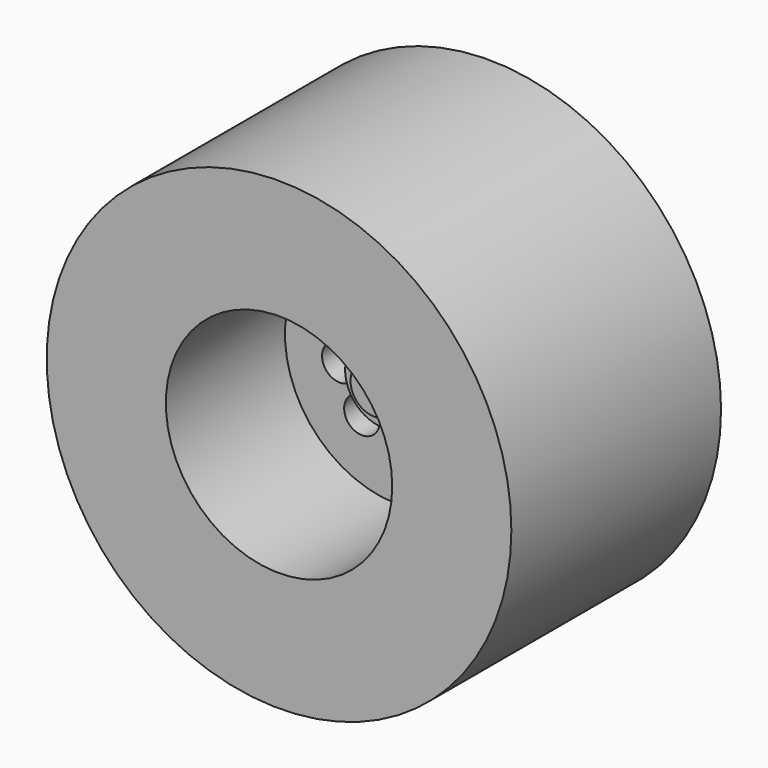
from build123d import *

# Parameters (mm, degrees)
F0_R      = 19.5
F0_R_2    = 9.5
F1_DEPTH  = 22
F2_DEPTH  = 12.5
F4_DEPTH  = 25.4
F5_R      = 3
F5_R_2    = 1.5
F6_DEPTH  = 8.5
F7_R      = 18
F7_R_2    = 9.75
F8_DEPTH  = 15.5
F9_R      = 3.25
F10_DEPTH = 1.5
F11_R     = 2
F12_DEPTH = 1


with BuildPart() as f1:
    # F0 (on Front) → F1 (new body)
    with BuildSketch(Plane.XZ):
        Circle(F0_R)
        Circle(F0_R_2, mode=Mode.SUBTRACT)
        Circle(F0_R_2)
    extrude(amount=-F1_DEPTH)

    # F0 (on Front) → F2 (cut)
    with BuildSketch(Plane.XZ):
        Circle(F0_R_2)
    extrude(amount=-F2_DEPTH, mode=Mode.SUBTRACT)

    # F3 (on face) → F4 (cut)
    with BuildSketch(Plane.XZ.offset(-12.5)):
        with BuildLine():
            ThreePointArc((1.725492364, 4.6128408927), (2.1099407886, 2.6979204712), (4.0610724324, 2.7862727252))
            ThreePointArc((4.0610724324, 2.7862727252), (3.0340024478, 3.8794914804), (1.725492364, 4.6128408927))
        make_face()
        with BuildLine():
            ThreePointArc((1.725492364, 4.6128408927), (3.0340024478, 3.8794914804), (4.0610724324, 2.7862727252))
            ThreePointArc((4.0610724324, 2.7862727252), (4.410702302, 3.2839266128), (4.5340024478, 3.8794914804))
            ThreePointArc((4.5340024478, 3.8794914804), (3.412971361, 5.3308296777), (1.725492364, 4.6128408927))
        make_face()
        with BuildLine():
            ThreePointArc((-2.0416637243, 4.4818784273), (-0.4157644207, 3.3996712998), (0.9014195176, 4.841804194))
            ThreePointArc((0.9014195176, 4.841804194), (-0.5978510284, 4.8885784383), (-2.0416637243, 4.4818784273))
        make_face()
        with BuildLine():
            ThreePointArc((-2.0416637243, 4.4818784273), (-0.5978510284, 4.8885784383), (0.9014195176, 4.841804194))
            ThreePointArc((0.9014195176, 4.841804194), (0.901966597, 4.8651884724), (0.9021489716, 4.8885784383))
            ThreePointArc((0.9021489716, 4.8885784383), (-0.8031324889, 6.374465218), (-2.0416637243, 4.4818784273))
        make_face()
        with BuildLine():
            ThreePointArc((-2.3794914804, 3.0340024478), (-2.4848897213, 3.5863482938), (-2.7862727252, 4.0610724324))
            ThreePointArc((-2.7862727252, 4.0610724324), (-3.8794914804, 3.0340024478), (-4.6128408927, 1.725492364))
            ThreePointArc((-4.6128408927, 1.725492364), (-3.1212118877, 1.7397798784), (-2.3794914804, 3.0340024478))
        make_face()
        with BuildLine():
            ThreePointArc((-4.6128408927, 1.725492364), (-3.8794914804, 3.0340024478), (-2.7862727252, 4.0610724324))
            ThreePointArc((-2.7862727252, 4.0610724324), (-5.0610624897, 3.9580641071), (-4.6128408927, 1.725492364))
        make_face()
        with BuildLine():
            ThreePointArc((-3.3885784383, -0.5978510284), (-3.8115080213, 0.4461409815), (-4.841804194, 0.9014195176))
            ThreePointArc((-4.841804194, 0.9014195176), (-4.8885784383, -0.5978510284), (-4.4818784273, -2.0416637243))
            ThreePointArc((-4.4818784273, -2.0416637243), (-3.6927419076, -1.5033757335), (-3.3885784383, -0.5978510284))
        make_face()
        with BuildLine():
            ThreePointArc((-4.4818784273, -2.0416637243), (-4.8885784383, -0.5978510284), (-4.841804194, 0.9014195176))
            ThreePointArc((-4.841804194, 0.9014195176), (-6.3774855769, -0.779937636), (-4.4818784273, -2.0416637243))
        make_face()
        with BuildLine():
            ThreePointArc((-4.0610724324, -2.7862727252), (-3.0340024478, -3.8794914804), (-1.725492364, -4.6128408927))
            ThreePointArc((-1.725492364, -4.6128408927), (-1.5826642505, -4.2584603936), (-1.5340024478, -3.8794914804))
            ThreePointArc((-1.5340024478, -3.8794914804), (-2.4384375802, -2.5027916263), (-4.0610724324, -2.7862727252))
        make_face()
        with BuildLine():
            ThreePointArc((-4.0610724324, -2.7862727252), (-3.9580641071, -5.0610624897), (-1.725492364, -4.6128408927))
            ThreePointArc((-1.725492364, -4.6128408927), (-3.0340024478, -3.8794914804), (-4.0610724324, -2.7862727252))
        make_face()
        with BuildLine():
            ThreePointArc((-0.9014195176, -4.841804194), (0.5978510284, -4.8885784383), (2.0416637243, -4.4818784273))
            ThreePointArc((2.0416637243, -4.4818784273), (0.4157644207, -3.3996712998), (-0.9014195176, -4.841804194))
        make_face()
        with BuildLine():
            ThreePointArc((2.0978510284, -4.8885784383), (2.083737808, -4.6832969778), (2.0416637243, -4.4818784273))
            ThreePointArc((2.0416637243, -4.4818784273), (0.5978510284, -4.8885784383), (-0.9014195176, -4.841804194))
            ThreePointArc((-0.9014195176, -4.841804194), (0.5744610624, -6.3883960638), (2.0978510284, -4.8885784383))
        make_face()
        with BuildLine():
            ThreePointArc((2.7862727252, -4.0610724324), (3.8794914804, -3.0340024478), (4.6128408927, -1.725492364))
            ThreePointArc((4.6128408927, -1.725492364), (2.6979204712, -2.1099407886), (2.7862727252, -4.0610724324))
        make_face()
        with BuildLine():
            ThreePointArc((5.3794914804, -3.0340024478), (5.1737140499, -2.2757228551), (4.6128408927, -1.725492364))
            ThreePointArc((4.6128408927, -1.725492364), (3.8794914804, -3.0340024478), (2.7862727252, -4.0610724324))
            ThreePointArc((2.7862727252, -4.0610724324), (4.4318373264, -4.4286042069), (5.3794914804, -3.0340024478))
        make_face()
        with BuildLine():
            ThreePointArc((4.841804194, -0.9014195176), (4.9041569436, -0.4526253111), (4.925, 0))
            ThreePointArc((4.925, 0), (4.8129448498, 1.0445989053), (4.4818784273, 2.0416637243))
            ThreePointArc((4.4818784273, 2.0416637243), (3.3996712998, 0.4157644207), (4.841804194, -0.9014195176))
        make_face()
        with BuildLine():
            ThreePointArc((4.4818784273, 2.0416637243), (4.8129448498, 1.0445989053), (4.925, 0))
            ThreePointArc((4.925, 0), (4.9041569436, -0.4526253111), (4.841804194, -0.9014195176))
            ThreePointArc((4.841804194, -0.9014195176), (5.9325704483, -0.4792193887), (6.3885784383, 0.5978510284))
            ThreePointArc((6.3885784383, 0.5978510284), (5.7941031435, 1.7936875591), (4.4818784273, 2.0416637243))
        make_face()
    extrude(amount=-F4_DEPTH, mode=Mode.SUBTRACT)

    # F5 (on face) → F6 (join)
    with BuildSketch(Plane(origin=(0, 22, 0), x_dir=(-1, 0, 0), z_dir=(0, 1, 0))):
        Circle(F5_R)
        Circle(F5_R_2, mode=Mode.SUBTRACT)
    extrude(amount=F6_DEPTH)

    # F7 (on face) → F8 (cut)
    with BuildSketch(Plane(origin=(0, 22, 0), x_dir=(-1, 0, 0), z_dir=(0, 1, 0))):
        Circle(F7_R)
        Circle(F7_R_2, mode=Mode.SUBTRACT)
    extrude(amount=-F8_DEPTH, mode=Mode.SUBTRACT)

    # F9 (on face) → F10 (join)
    with BuildSketch(Plane.XZ.offset(-12.5)):
        Circle(F9_R)
    extrude(amount=F10_DEPTH)

    # F11 (on face) → F12 (join)
    with BuildSketch(Plane.XZ.offset(-11)):
        Circle(F11_R)
    extrude(amount=F12_DEPTH)


solid = f1.part
